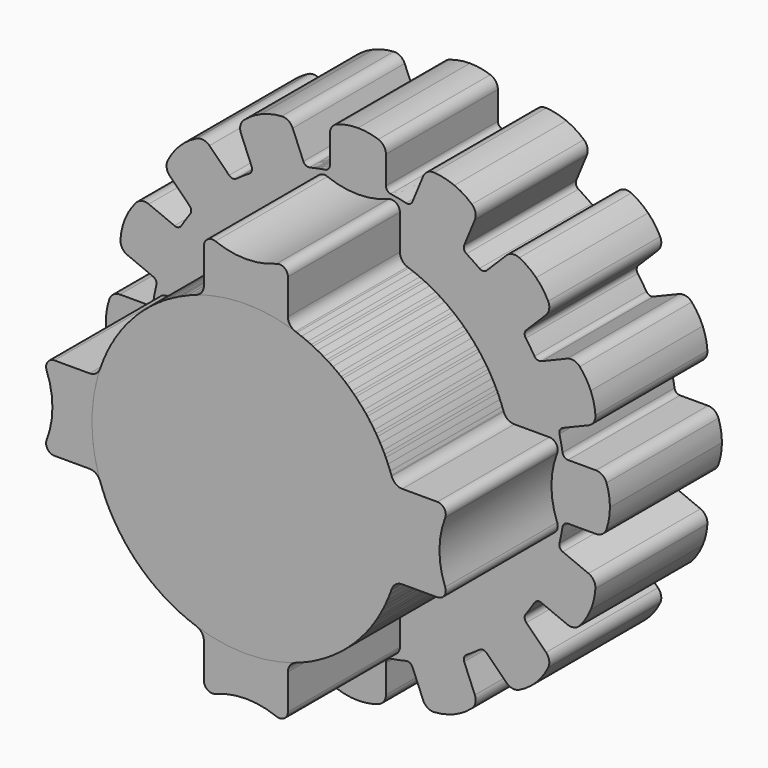
from build123d import *

# Parameters (mm, degrees)
F2_DEPTH = 25
F3_R     = 2
F4_R     = 1
F5_COUNT = 16
F7_DEPTH = 25
F8_R     = 2
F9_COUNT = 4


with BuildPart() as f2:
    # F0 (on Front) → F2 (new body)
    with BuildSketch(Plane.XZ):
        with BuildLine():
            ThreePointArc((37, 0), (27.87472, 24.33105), (5, 36.660606))
            ThreePointArc((5, 36.660606), (0, 37), (-5, 36.660606))
            ThreePointArc((-5, 36.660606), (-24.33105, -27.87472), (37, 0))
        make_face()
        with BuildLine():
            ThreePointArc((5, 43.827822), (2.567781, 44.703036), (0, 45))
            ThreePointArc((0, 45), (-2.567781, 44.703036), (-5, 43.827822))
            Line((-5, 43.827822), (-5, 36.660606))
            ThreePointArc((-5, 36.660606), (0, 37), (5, 36.660606))
            Line((5, 36.660606), (5, 43.827822))
        make_face()
    extrude(amount=F2_DEPTH)

    # F3
    f3_edges = [f2.edges().sort_by_distance(p)[0] for p in [
        (-5, -12.5, 43.827822),
        (5, -12.5, 43.827822),
    ]]
    fillet(f3_edges, radius=F3_R)

    # F4
    f4_edges = [f2.edges().sort_by_distance(p)[0] for p in [
        (-5, -12.5, 36.660606),
        (5, -12.5, 36.660606),
    ]]
    fillet(f4_edges, radius=F4_R)

    # F5: F2 ×16 about axis
    f5_axis = Axis((0, -16.216468, 0), (0, -1, 0))


with BuildPart() as f2_1:
    add(f2.part)
    for i in range(1, F5_COUNT):
        add(f2.part.rotate(f5_axis, i * 360 / F5_COUNT))

    # F6 (on face) → F7 (join)
    with BuildSketch(Plane.XZ.offset(25)):
        with BuildLine():
            ThreePointArc((-7.5, 26.457513), (0, 27.5), (7.5, 26.457513))
            Line((7.5, 26.457513), (7.5, 34.186986))
            ThreePointArc((7.5, 34.186986), (6.846114, 35.42557), (5.454545, 35.584297))
            ThreePointArc((5.454545, 35.584297), (0, 34.557412), (-5.454545, 35.584297))
            ThreePointArc((-5.454545, 35.584297), (-6.846114, 35.42557), (-7.5, 34.186986))
            Line((-7.5, 34.186986), (-7.5, 26.457513))
        make_face()
        with BuildLine():
            ThreePointArc((-7.5, 26.457513), (-16.583124, -21.937411), (27.5, 0))
            ThreePointArc((27.5, 0), (21.937411, 16.583124), (7.5, 26.457513))
            ThreePointArc((7.5, 26.457513), (0, 27.5), (-7.5, 26.457513))
        make_face()
    extrude(amount=F7_DEPTH)

    # F8
    f8_edges = [f2_1.edges().sort_by_distance(p)[0] for p in [
        (-7.5, -37.5, 26.457513),
        (7.5, -37.5, 26.457513),
    ]]
    fillet(f8_edges, radius=F8_R)


with BuildPart() as f9_1:
    # F9: instance of F2
    add(f2_1.part.rotate(Axis((0, -16.216468, 0), (0, -1, 0)), 1 * 360 / F9_COUNT))


with BuildPart() as f9_2:
    # F9: instance of F2
    add(f2_1.part.rotate(Axis((0, -16.216468, 0), (0, -1, 0)), 2 * 360 / F9_COUNT))


with BuildPart() as f9_3:
    # F9: instance of F2
    add(f2_1.part.rotate(Axis((0, -16.216468, 0), (0, -1, 0)), 3 * 360 / F9_COUNT))


solid = Compound([f2_1.part, f9_1.part, f9_2.part, f9_3.part])
